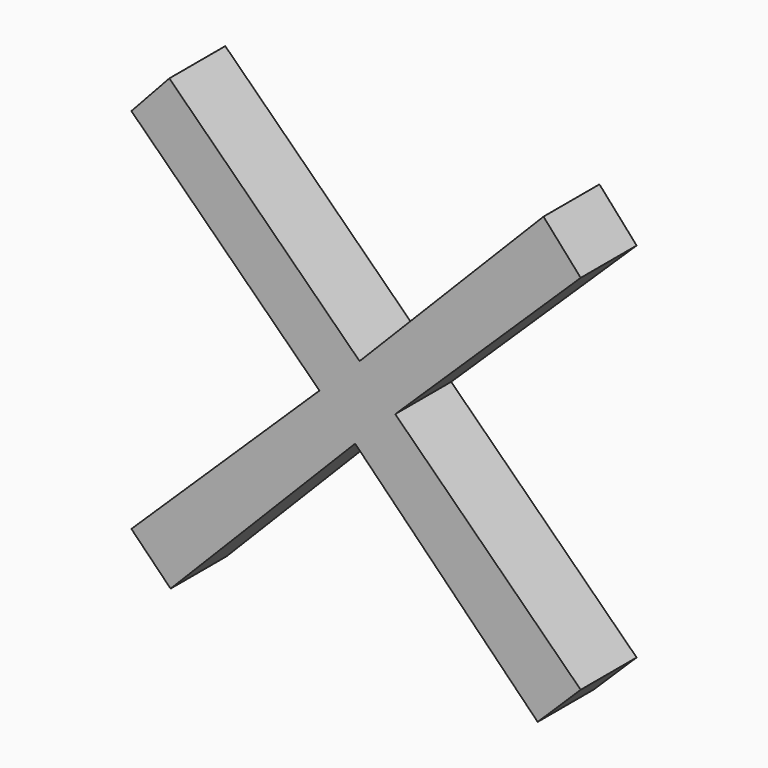
from build123d import *

# Parameters (mm, degrees)
F1_DEPTH = 12.7


with BuildPart() as f1:
    # F0 (on Front) → F1 (new body)
    with BuildSketch(Plane.XZ):
        Polygon((-33.7118367519, 41.1562249064), (-40.6031636763, 33.6906229065), (-6.4398701091, 0.0998017263), (0.842697291, 7.1807192451), align=None)
        Polygon((0.842697291, 7.1807192451), (-6.4398701091, 0.0998017263), (-2.4844633379, -3.7893245163), (0.0352224959, -6.2667881165), (7.317789896, 0.8141294024), align=None)
        Polygon((-2.4844633379, -3.7893245163), (-6.4398701091, 0.0998017263), (-40.6031636763, -33.1175309299), (-33.4843747504, -40.357643914), (0.0352224959, -6.2667881165), align=None)
        Polygon((34.2488773167, 41.1562249064), (0.842697291, 7.1807192451), (7.317789896, 0.8141294024), (40.9988134673, 33.5625458269), align=None)
        Polygon((40.9988134673, -32.3025031532), (7.317789896, 0.8141294024), (0.0352224959, -6.2667881165), (33.1869239615, -39.9834872244), align=None)
    extrude(amount=F1_DEPTH)


solid = f1.part
